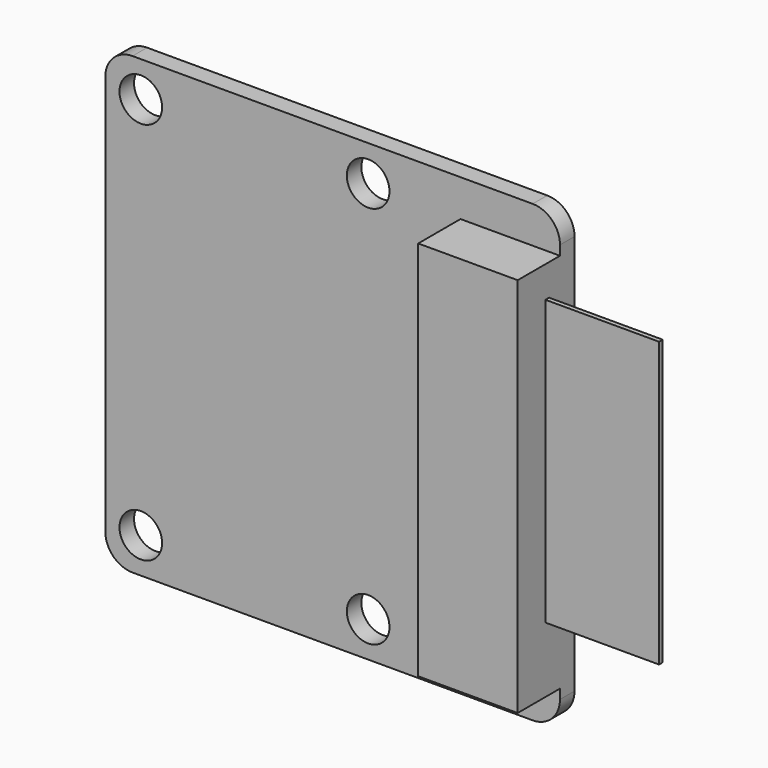
from build123d import *

# Parameters (mm, degrees)
F0_W     = 25.4
F0_H     = 25.4
F0_R     = 1.190625
F0_W_2   = 8.73125
F0_H_2   = 8.73125
F0_R_2   = 3.96875
F1_DEPTH = 1.016
F2_DEPTH = 1.5875
F3_DEPTH = 4.7625
F4_R     = 1.524
F5_W     = 5.55625
F5_H     = 21.283928
F6_DEPTH = 2.95275
F7_W     = 0.254
F7_H     = 15.875
F8_DEPTH = 6.35


with BuildPart() as f1:
    # F0 (on Front) → F1 (new body)
    with BuildSketch(Plane.XZ):
        with Locations((0.840441, -0.954741)):
            Rectangle(F0_W, F0_H)
        with Locations((-9.875184, -11.670366)):
            Circle(F0_R, mode=Mode.SUBTRACT)
        with Locations((2.824816, -11.670366)):
            Circle(F0_R, mode=Mode.SUBTRACT)
        with Locations((2.824816, -0.954741)):
            Rectangle(F0_W_2, F0_H_2, mode=Mode.SUBTRACT)
        with Locations((-9.875184, 9.760884)):
            Circle(F0_R, mode=Mode.SUBTRACT)
        with Locations((2.824816, 9.760884)):
            Circle(F0_R, mode=Mode.SUBTRACT)
        with Locations((2.824816, -0.954741)):
            Rectangle(F0_W_2, F0_H_2)
        with Locations((2.824816, -0.954741)):
            Circle(F0_R_2, mode=Mode.SUBTRACT)
        with Locations((2.824816, -0.954741)):
            Circle(F0_R_2)
    extrude(amount=F1_DEPTH)

    # F0 (on Front) → F2 (join)
    with BuildSketch(Plane.XZ):
        with Locations((2.824816, -0.954741)):
            Rectangle(F0_W_2, F0_H_2)
        with Locations((2.824816, -0.954741)):
            Circle(F0_R_2, mode=Mode.SUBTRACT)
        with Locations((2.824816, -0.954741)):
            Circle(F0_R_2)
    extrude(amount=-F2_DEPTH)

    # F0 (on Front) → F3 (join)
    with BuildSketch(Plane.XZ):
        with Locations((2.824816, -0.954741)):
            Circle(F0_R_2)
    extrude(amount=-F3_DEPTH)

    # F4
    f4_edges = [f1.edges().sort_by_distance(p)[0] for p in [
        (-11.859559, -0.508, 11.745259),
        (-11.859559, -0.508, -13.654741),
        (13.540441, -0.508, -13.654741),
        (13.540441, -0.508, 11.745259),
    ]]
    fillet(f4_edges, radius=F4_R)

    # F5 (on face) → F6 (join)
    with BuildSketch(Plane.XZ.offset(1.016)):
        with Locations((10.762316, -0.954741)):
            Rectangle(F5_W, F5_H)
    extrude(amount=F6_DEPTH)

    # F7 (on face) → F8 (join)
    with BuildSketch(Plane.YZ.offset(13.540441)):
        with Locations((-1.905, 0)):
            Rectangle(F7_W, F7_H)
    extrude(amount=F8_DEPTH)


solid = f1.part
